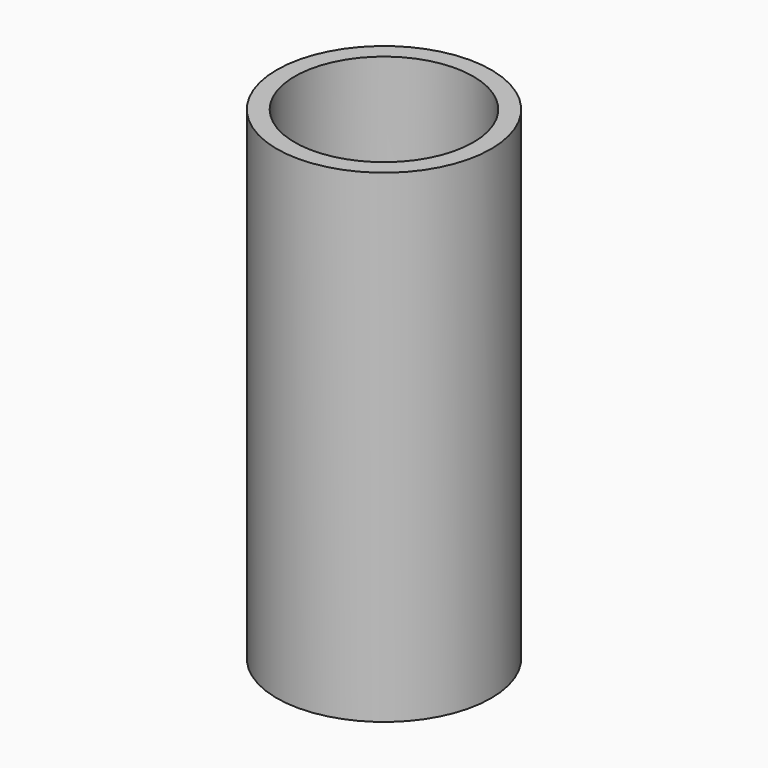
from build123d import *

# Parameters (mm, degrees)
F1_R     = 15
F2_DEPTH = 67.678692
F3_T     = -2.5
F0_R     = 15
F4_DEPTH = 25


with BuildPart() as f2:
    # F1 (on face) → F2 (new body)
    with BuildSketch(Plane.XY):
        Circle(F1_R)
    extrude(amount=F2_DEPTH)

    # F3
    f3_openings = [f2.faces().sort_by_distance(p)[0] for p in [
        (0, 0, 67.678692),
    ]]
    offset(amount=F3_T, openings=f3_openings)

    # F0 (on Top) → F4 (join)
    with BuildSketch(Plane.XY):
        Circle(F0_R)
    extrude(amount=F4_DEPTH)


solid = f2.part
